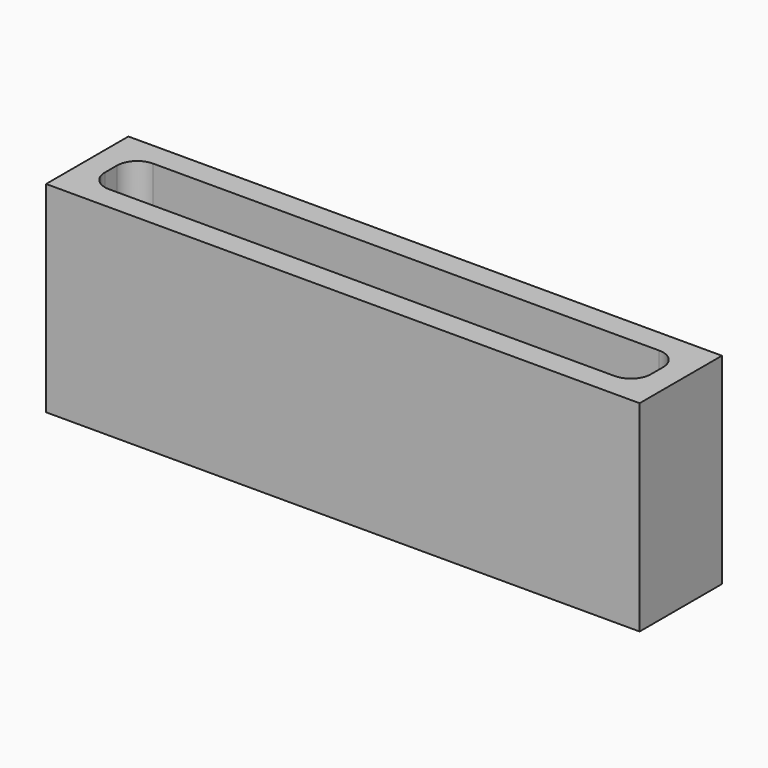
from build123d import *

# Parameters (mm, degrees)
F1_DEPTH = 25.4


with BuildPart() as f1:
    # F0 (on Top) → F1 (new body)
    with BuildSketch(Plane.XY):
        Polygon((-7.199717, -15.923513), (-1.659717, -15.923513), (67.800283, -15.923513), (67.800283, -2.923513), (-7.199717, -2.923513), (-7.199717, -12.923513), align=None)
        with BuildLine():
            Line((62.260283, -12.923513), (-1.659717, -12.923513))
            ThreePointArc((-1.659717, -12.923513), (-3.455768, -12.179564), (-4.199717, -10.383513))
            Line((-4.199717, -10.383513), (-4.199717, -8.463513))
            ThreePointArc((-4.199717, -8.463513), (-3.455768, -6.667462), (-1.659717, -5.923513))
            Line((-1.659717, -5.923513), (62.260283, -5.923513))
            ThreePointArc((62.260283, -5.923513), (64.056334, -6.667462), (64.800283, -8.463513))
            Line((64.800283, -8.463513), (64.800283, -10.383513))
            ThreePointArc((64.800283, -10.383513), (64.056334, -12.179564), (62.260283, -12.923513))
        make_face(mode=Mode.SUBTRACT)
    extrude(amount=F1_DEPTH)


solid = f1.part
